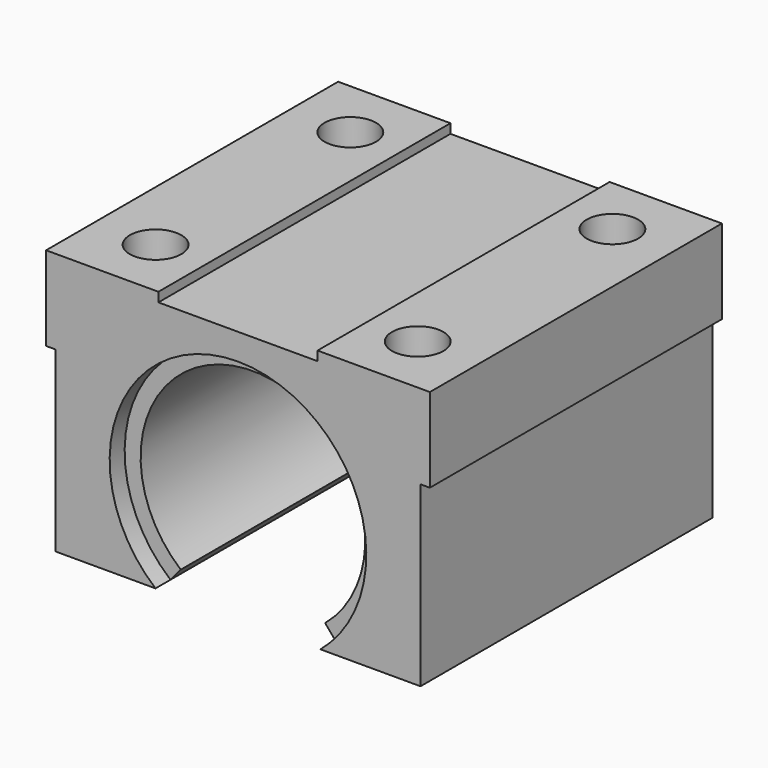
from build123d import *

# Parameters (mm, degrees)
PAD_DEPTH    = 39
PAD001_DEPTH = 35
SKETCH002_R  = 2.75
HOLE_DEPTH   = 10
HOLE_TIPS_R  = 2.75


with BuildPart() as part:
    # Sketch → Pad (new body)
    with BuildSketch(Plane.XZ):
        with BuildLine():
            ThreePointArc((8.810546, -10.5), (0, 13.706777), (-8.810546, -10.5))
            Line((-19.5, -10.5), (-8.810546, -10.5))
            Line((-19.5, -10.5), (-19.5, 8.5))
            Line((-19.5, 8.5), (-20.5, 8.5))
            Line((-20.5, 8.5), (-20.5, 17.5))
            Line((-20.5, 17.5), (-8.5, 17.5))
            Line((-8.5, 17.5), (-8.5, 16.5))
            Line((-8.5, 16.5), (8.5, 16.5))
            Line((8.5, 16.5), (8.5, 17.5))
            Line((8.5, 17.5), (20.5, 17.5))
            Line((20.5, 8.5), (20.5, 17.5))
            Line((19.5, 8.5), (20.5, 8.5))
            Line((19.5, -10.5), (19.5, 8.5))
            Line((8.810546, -10.5), (19.5, -10.5))
        make_face()
    extrude(amount=PAD_DEPTH)

    # Sketch001 (on DatumPlane) → Pad001 (join)
    with BuildSketch(Plane.XZ.offset(37)):
        with BuildLine():
            ThreePointArc((8.809308, -10.501039), (0.000808, 13.706777), (-8.810546, -10.5))
            Line((-7.713451, -9.192533), (-8.810546, -10.5))
            ThreePointArc((7.713451, -9.192533), (0, 12), (-7.713451, -9.192533))
            Line((7.713451, -9.192533), (8.809308, -10.501039))
        make_face()
    extrude(amount=-PAD001_DEPTH)

    # Sketch002 (on Face13 of Pad001) → Hole (cut)
    with BuildSketch(Plane(origin=(0, 0, 17.5), x_dir=(-1, 0, 0), z_dir=(0, 0, 1))):
        with Locations((-14, 32.5)):
            Circle(SKETCH002_R)
        with Locations((14, 32.5)):
            Circle(SKETCH002_R)
        with Locations((14, 6.5)):
            Circle(SKETCH002_R)
        with Locations((-14, 6.5)):
            Circle(SKETCH002_R)
    extrude(amount=-HOLE_DEPTH, mode=Mode.SUBTRACT)

    # Hole tips → Hole tip 1 section 0
    with BuildSketch(Plane(origin=(0, 0, 7.5), x_dir=(-1, 0, 0), z_dir=(0, 0, 1)), mode=Mode.PRIVATE) as hole_tip_1_s0:
        with Locations((-14, 32.5)):
            Circle(HOLE_TIPS_R)
    loft([hole_tip_1_s0.sketch, Vertex(14, -32.5, 5.847633)], mode=Mode.SUBTRACT)

    # Hole tips → Hole tip 2 section 0
    with BuildSketch(Plane(origin=(0, 0, 7.5), x_dir=(-1, 0, 0), z_dir=(0, 0, 1)), mode=Mode.PRIVATE) as hole_tip_2_s0:
        with Locations((14, 32.5)):
            Circle(HOLE_TIPS_R)
    loft([hole_tip_2_s0.sketch, Vertex(-14, -32.5, 5.847633)], mode=Mode.SUBTRACT)

    # Hole tips → Hole tip 3 section 0
    with BuildSketch(Plane(origin=(0, 0, 7.5), x_dir=(-1, 0, 0), z_dir=(0, 0, 1)), mode=Mode.PRIVATE) as hole_tip_3_s0:
        with Locations((14, 6.5)):
            Circle(HOLE_TIPS_R)
    loft([hole_tip_3_s0.sketch, Vertex(-14, -6.5, 5.847633)], mode=Mode.SUBTRACT)

    # Hole tips → Hole tip 4 section 0
    with BuildSketch(Plane(origin=(0, 0, 7.5), x_dir=(-1, 0, 0), z_dir=(0, 0, 1)), mode=Mode.PRIVATE) as hole_tip_4_s0:
        with Locations((-14, 6.5)):
            Circle(HOLE_TIPS_R)
    loft([hole_tip_4_s0.sketch, Vertex(14, -6.5, 5.847633)], mode=Mode.SUBTRACT)


solid = part.part
